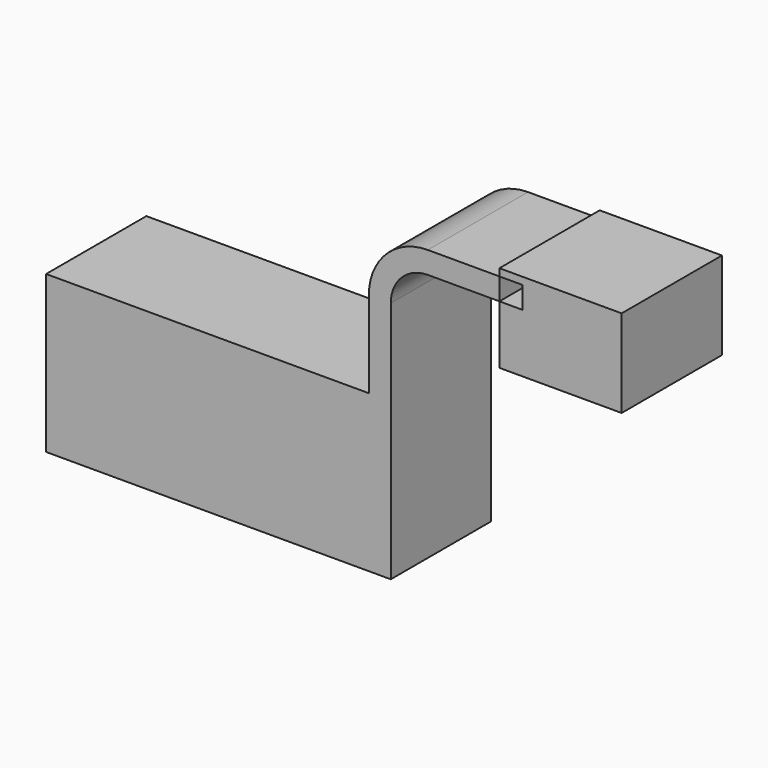
from build123d import *

# Parameters (mm, degrees)
F1_DEPTH = 25.4


with BuildPart() as f1:
    # F0 (on Front) → F1 (new body, symmetric)
    with BuildSketch(Plane.XZ):
        Polygon((-69.85, 31.75), (-69.85, -31.75), (69.85, -31.75), (69.85, 31.75), (60.96, 31.75), align=None)
        with BuildLine():
            Line((60.96, 31.75), (69.85, 31.75))
            Line((69.85, 31.75), (69.85, 66.75354))
            ThreePointArc((69.85, 66.75354), (74.239148, 77.349881), (84.835489, 81.739029))
            Line((84.835489, 81.739029), (113.873671, 81.739029))
            Line((113.873671, 81.739029), (113.873671, 90.629029))
            Line((113.873671, 90.629029), (84.835489, 90.629029))
            ThreePointArc((84.835489, 90.629029), (67.952969, 83.63606), (60.96, 66.75354))
            Line((60.96, 66.75354), (60.96, 31.75))
        make_face()
        Polygon((123.183624, 81.739029), (113.873671, 81.739029), (113.873671, 58.002657), (163.403671, 58.002657), (163.403671, 93.562657), (113.873671, 93.562657), (113.873671, 90.629029), (123.183624, 90.629029), align=None)
    extrude(amount=F1_DEPTH, both=True)


solid = f1.part
